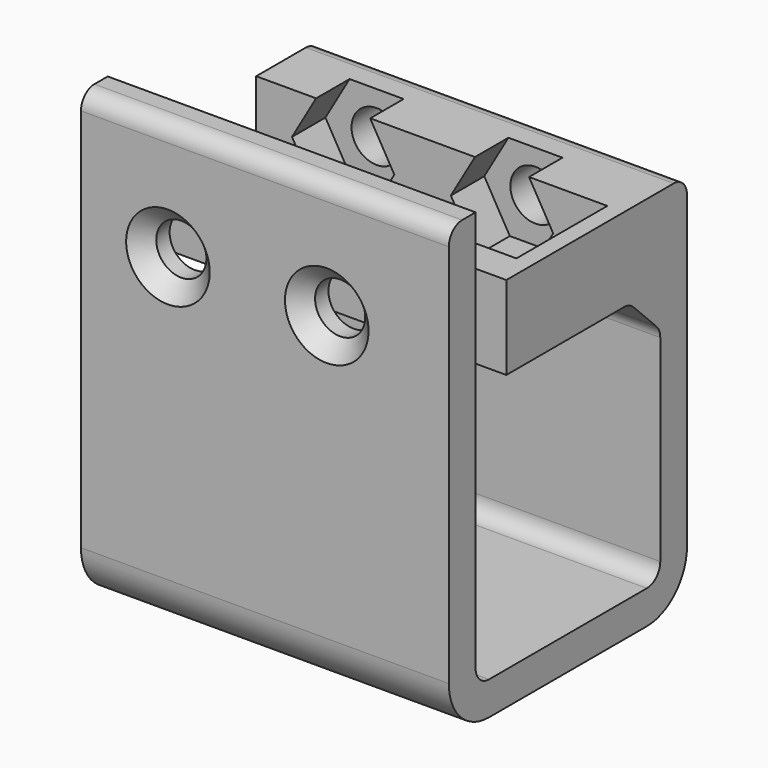
from build123d import *

# Parameters (mm, degrees)
PAD007_DEPTH            = 22
SKETCH025_W             = 6.8
SKETCH025_H             = 6
POCKET_DEPTH            = 21
SKETCH026_R             = 1.5
POCKET001_DEPTH         = 17.808107
POCKET002_DEPTH         = 2.5
HOLE_D                  = 3
HOLE_DEPTH              = 25
HOLE_CSINK_D            = 5
HOLE_CSINK_ANGLE        = 90
BODY007_ROLL_ANGLE      = 90
BODY007_PLACEMENT_ANGLE = 90


with BuildPart() as part:
    # Sketch024 → Pad007 (new body)
    with BuildSketch(Plane.XY):
        with BuildLine():
            Line((4.707107, 1.5), (4.707107, -17))
            ThreePointArc((1.707107, -20), (3.828427, -19.12132), (4.707107, -17))
            Line((1.707107, -20), (-10.1, -20))
            ThreePointArc((-13.1, -17), (-12.22132, -19.12132), (-10.1, -20))
            Line((-13.1, -17), (-13.1, 6))
            ThreePointArc((-12.1, 7), (-12.807107, 6.707107), (-13.1, 6))
            Line((-12.1, 7), (-11.1, 7))
            Line((-11.1, 7), (-11.1, -17))
            ThreePointArc((-11.1, -17), (-10.807107, -17.707107), (-10.1, -18))
            Line((-10.1, -18), (1.707107, -18))
            ThreePointArc((1.707107, -18), (2.414214, -17.707107), (2.707107, -17))
            Line((2.707107, -17), (2.707107, -5.207107))
            ThreePointArc((2.707107, -5.207107), (2.630986, -4.824423), (2.414214, -4.5))
            Line((2.414214, -4.5), (0.707107, -2.792893))
            ThreePointArc((0.707107, -2.792893), (0.382683, -2.57612), (0, -2.5))
            Line((0, -2.5), (-8.8, -2.5))
            Line((-8.8, -2.5), (-8.8, 0))
            Line((-8.8, 0), (-8.8, 2.5))
            Line((-8.8, 2.5), (3.707107, 2.5))
            ThreePointArc((4.707107, 1.5), (4.414214, 2.207107), (3.707107, 2.5))
        make_face()
    extrude(amount=PAD007_DEPTH)

    # Sketch025 (on Face19 of Pad007) → Pocket (cut)
    with BuildSketch(Plane(origin=(0, 0, 0), x_dir=(1, 0, 0), z_dir=(0, 0, -1))):
        with Locations((-3.4, 0)):
            Rectangle(SKETCH025_W, SKETCH025_H)
    extrude(amount=-POCKET_DEPTH, mode=Mode.SUBTRACT)

    # Sketch026 (on Face1 of Pocket) → Pocket001 (cut, through all)
    with BuildSketch(Plane.YZ.offset(4.707107)):
        with Locations((0, 14.7)):
            Circle(SKETCH026_R)
        with Locations((0, 5.2)):
            Circle(SKETCH026_R)
    extrude(amount=-POCKET001_DEPTH, mode=Mode.SUBTRACT)

    # Sketch027 (on Face21 of Pocket001) → Pocket002 (cut)
    with BuildSketch(Plane(origin=(0, 0, 0), x_dir=(0, -1, 0), z_dir=(-1, 0, 0))):
        Polygon((0, 11.640044), (2.65, 13.170022), (2.65, 16.229978), (0, 17.759956), (-2.65, 16.229978), (-2.65, 13.170022), align=None)
        Polygon((0, 8.259956), (-2.65, 6.729978), (-2.65, 3.670022), (0, 2.140044), (2.65, 3.670022), (2.65, 6.729978), align=None)
    extrude(amount=-POCKET002_DEPTH, mode=Mode.SUBTRACT)

    # Hole
    with Locations(Plane(origin=(-13.1, 0, 0), x_dir=(0, -1, 0), z_dir=(-1, 0, 0))):
        with Locations((0, 14.7), (0, 5.2)):
            CounterSinkHole(HOLE_D / 2, HOLE_CSINK_D / 2, depth=HOLE_DEPTH, counter_sink_angle=HOLE_CSINK_ANGLE)


with BuildPart() as part_1:
    # Body007 roll: moved
    add(part.part.rotate(Axis((0, 0, 0), (1, 0, 0)), BODY007_ROLL_ANGLE))


with BuildPart() as part_2:
    # Body007 placement: moved
    add(part_1.part.moved(Location((154.5, 97.2, -15.5))).rotate(Axis((154.5, 97.2, -15.5), (0, 0, 1)), BODY007_PLACEMENT_ANGLE))


solid = part_2.part
